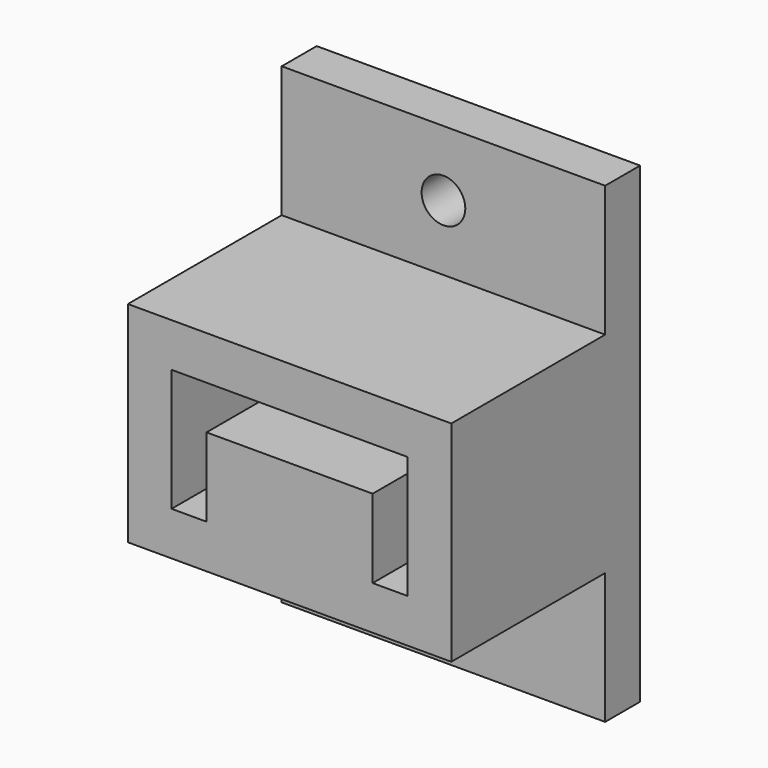
from build123d import *

# Parameters (mm, degrees)
F0_W     = 37
F0_H     = 24
F1_DEPTH = 27
F2_W     = 37
F2_H     = 54
F2_R     = 2.5
F3_DEPTH = 5


with BuildPart() as f1:
    # F0 (on Front) → F1 (new body)
    with BuildSketch(Plane.XZ):
        with Locations((13.5, -7)):
            Rectangle(F0_W, F0_H)
        Polygon((0, -14), (0, 0), (27, 0), (27, -14), (23, -14), (23, -5), (4, -5), (4, -14), align=None, mode=Mode.SUBTRACT)
    extrude(amount=F1_DEPTH)

    # F2 (on Front) → F3 (join)
    with BuildSketch(Plane.XZ):
        with Locations((13.5, -7)):
            Rectangle(F2_W, F2_H)
        with Locations((13.5, -26.5)):
            Circle(F2_R, mode=Mode.SUBTRACT)
        with Locations((13.5, 12.5)):
            Circle(F2_R, mode=Mode.SUBTRACT)
    extrude(amount=F3_DEPTH)


solid = f1.part
